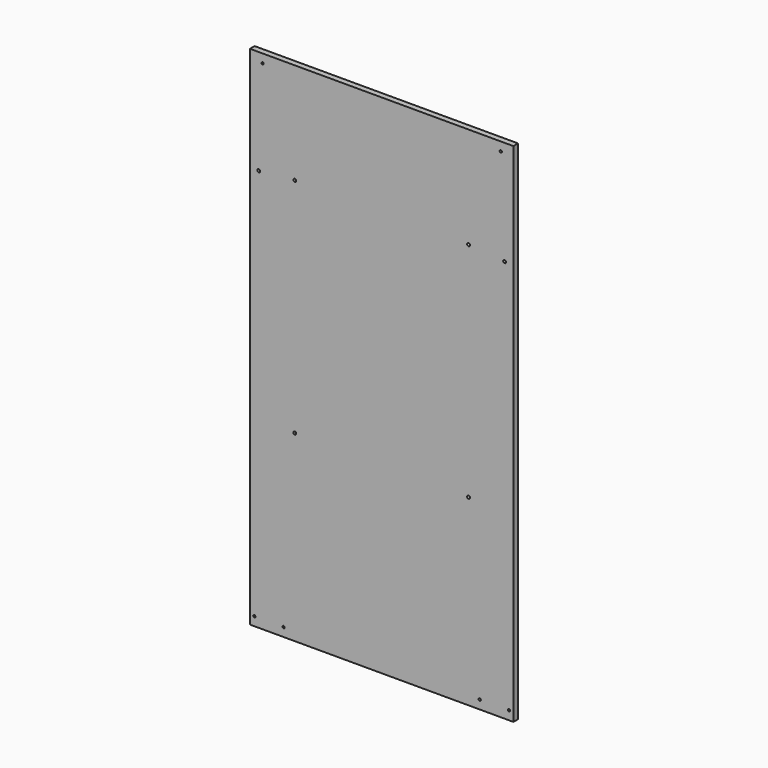
from build123d import *

# Parameters (mm, degrees)
F0_W           = 571.5
F0_H           = 1099.82
F1_DEPTH       = 12.6492
F3_D           = 4.826
F3_DEPTH       = 12.7
F4_D           = 6.35
F6_D           = 4.826
F6_DEPTH       = 12.7
F6_CBORE_D     = 9.4742
F6_CBORE_DEPTH = 3.3782


with BuildPart() as f1:
    # F0 (on Front) → F1 (new body)
    with BuildSketch(Plane.XZ):
        with Locations((285.75, 549.91)):
            Rectangle(F0_W, F0_H)
    extrude(amount=F1_DEPTH)

    # F3
    with Locations(Plane.XZ.offset(12.6492)):
        with Locations((9.525, 19.05), (73.025, 19.05), (498.475, 19.05), (561.975, 19.05)):
            Hole(F3_D / 2, depth=F3_DEPTH)

    # F4 (through all)
    with Locations(Plane.XZ.offset(12.6492)):
        with Locations((97.2439, 880.11), (474.2561, 880.11), (97.2439, 397.51), (474.2561, 397.51), (19.05, 873.13008), (552.45, 873.13008)):
            Hole(F4_D / 2)

    # F6
    with Locations(Plane(origin=(0, 0, 0), x_dir=(-1, 0, 0), z_dir=(0, 1, 0))):
        with Locations((-544.1188, 1080.77), (-27.3812, 1080.77)):
            CounterBoreHole(F6_D / 2, F6_CBORE_D / 2, F6_CBORE_DEPTH, depth=F6_DEPTH)


solid = f1.part
